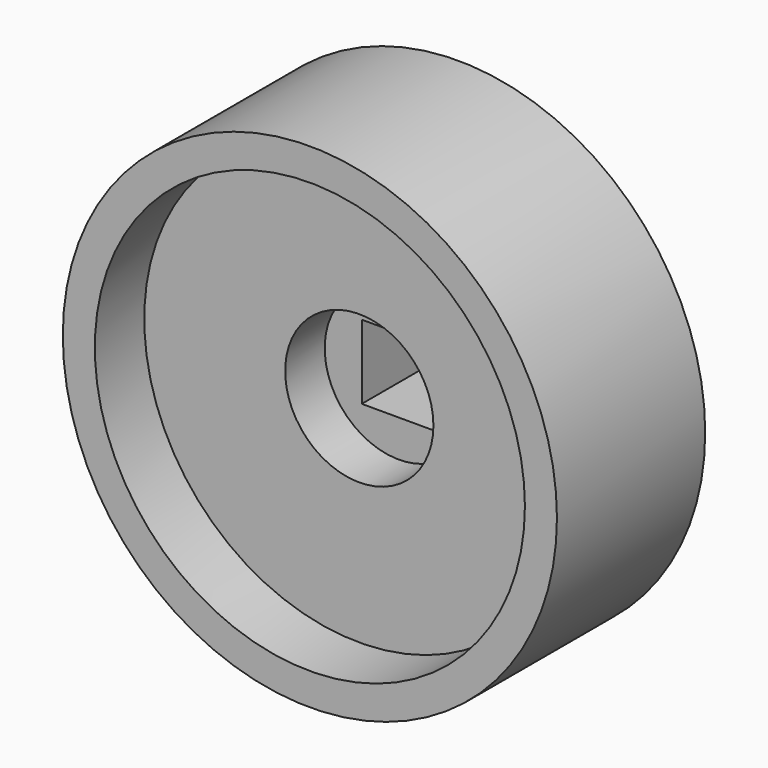
from build123d import *

# Parameters (mm, degrees)
F0_R     = 6
F0_W     = 6
F0_H     = 6
F1_DEPTH = 6
F0_R_2   = 17.2321789882
F2_DEPTH = 5
F3_DEPTH = 5
F0_R_3   = 20
F4_DEPTH = 15
F5_R     = 17.4069138817
F5_R_2   = 6
F6_DEPTH = 5


with BuildPart() as f1:
    # F0 (on Front) → F1 (new body)
    with BuildSketch(Plane.XZ):
        Circle(F0_R)
        Rectangle(F0_W, F0_H, mode=Mode.SUBTRACT)
    extrude(amount=F1_DEPTH)

    # F0 (on Front) → F2 (join)
    with BuildSketch(Plane.XZ):
        Circle(F0_R_2)
        Circle(F0_R, mode=Mode.SUBTRACT)
    extrude(amount=F2_DEPTH)

    # F0 (on Front) → F3 (join)
    with BuildSketch(Plane.XZ):
        Circle(F0_R)
        Rectangle(F0_W, F0_H, mode=Mode.SUBTRACT)
    extrude(amount=F3_DEPTH)

    # F0 (on Front) → F4 (join)
    with BuildSketch(Plane.XZ):
        Circle(F0_R_3)
        Circle(F0_R_2, mode=Mode.SUBTRACT)
        Circle(F0_R_2)
        Circle(F0_R, mode=Mode.SUBTRACT)
    extrude(amount=F4_DEPTH)

    # F5 (on face) → F6 (cut)
    with BuildSketch(Plane.XZ.offset(15)):
        Circle(F5_R)
        Circle(F5_R_2, mode=Mode.SUBTRACT)
    extrude(amount=-F6_DEPTH, mode=Mode.SUBTRACT)


solid = f1.part
